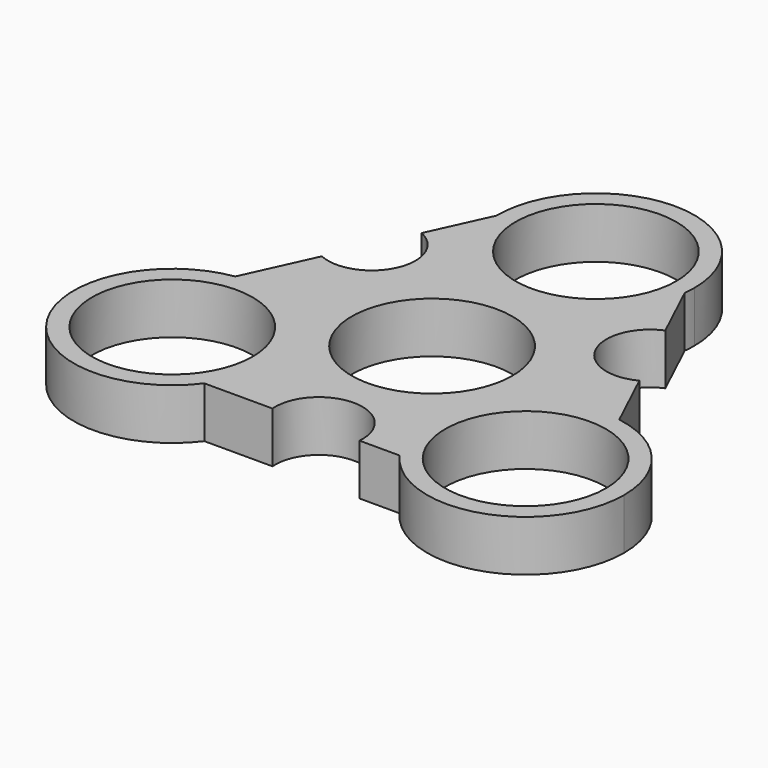
from build123d import *

# Parameters (mm, degrees)
F0_R     = 13.55
F0_R_2   = 11.05
F1_DEPTH = 7


with BuildPart() as f1:
    # F0 (on Top) → F1 (new body)
    with BuildSketch(Plane.XY):
        with BuildLine():
            ThreePointArc((13.459743, 26.596804), (-0.708745, 14.626703), (-13.549206, 28.011467))
            Line((-13.549206, 28.011467), (-17.291584, 19.826444))
            ThreePointArc((-17.291584, 19.826444), (-14.329821, 11.874843), (-22.281422, 8.91308))
            Line((-22.281422, 8.91308), (-26.614829, -0.564592))
            ThreePointArc((-26.614829, -0.564592), (-15.734002, -3.674906), (-11.008303, -13.95762))
            ThreePointArc((-11.008303, -13.95762), (-11.695068, -18.216691), (-13.685747, -22.04403))
            Line((-13.685747, -22.04403), (-4.310482, -22.04403))
            ThreePointArc((-4.310482, -22.04403), (1.668418, -15.541281), (7.647318, -22.04403))
            Line((7.647318, -22.04403), (13.16838, -22.04403))
            ThreePointArc((13.16838, -22.04403), (12.685675, -7.015447), (26.374741, -0.794454))
            Line((26.374741, -0.794454), (22.403146, 7.628853))
            ThreePointArc((22.403146, 7.628853), (14.195272, 10.386667), (17.289844, 18.473591))
            Line((17.289844, 18.473591), (13.459743, 26.596804))
        make_face()
        Circle(F0_R, mode=Mode.SUBTRACT)
        with BuildLine():
            ThreePointArc((37.744179, -14.167848), (34.517675, -5.391291), (26.374741, -0.794454))
            ThreePointArc((26.374741, -0.794454), (12.685675, -7.015447), (13.16838, -22.04403))
            ThreePointArc((13.16838, -22.04403), (28.32957, -27.071376), (37.744179, -14.167848))
        make_face()
        with Locations((24.194179, -14.167848)):
            Circle(F0_R_2, mode=Mode.SUBTRACT)
        with BuildLine():
            ThreePointArc((-11.008303, -13.95762), (-15.734002, -3.674906), (-26.614829, -0.564592))
            ThreePointArc((-26.614829, -0.564592), (-36.167445, -20.945492), (-13.685747, -22.04403))
            ThreePointArc((-13.685747, -22.04403), (-11.695068, -18.216691), (-11.008303, -13.95762))
        make_face()
        with Locations((-24.558303, -13.95762)):
            Circle(F0_R_2, mode=Mode.SUBTRACT)
        Circle(F0_R)
        Circle(F0_R_2, mode=Mode.SUBTRACT)
        with BuildLine():
            ThreePointArc((13.459743, 26.596804), (13.527417, 27.376176), (13.55, 28.158154))
            ThreePointArc((13.55, 28.158154), (-0.073345, 41.707956), (-13.549206, 28.011467))
            ThreePointArc((-13.549206, 28.011467), (-0.708745, 14.626703), (13.459743, 26.596804))
        make_face()
        with Locations((0, 28.158154)):
            Circle(F0_R_2, mode=Mode.SUBTRACT)
    extrude(amount=F1_DEPTH)


solid = f1.part
